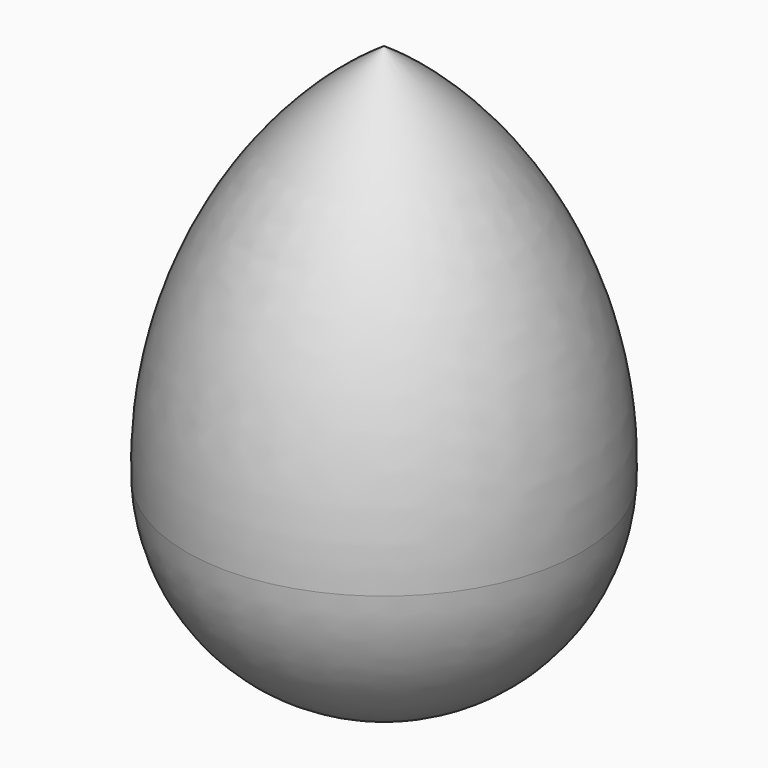
from build123d import *


with BuildPart() as f1:
    # F0 (on Front) → F1 (revolve)
    with BuildSketch(Plane.XZ):
        with BuildLine():
            Line((0, 40.73729), (-32.764791, -22.603863))
            ThreePointArc((-32.764791, -22.603863), (-22.644554, -44.799252), (0, -53.870008))
            Line((0, -53.870008), (0, 40.73729))
        make_face()
        with BuildLine():
            ThreePointArc((0, 40.73729), (-24.640741, 13.338549), (-32.764791, -22.603863))
            Line((-32.764791, -22.603863), (0, 40.73729))
        make_face()
    revolve(axis=Axis((0, 0, -6.566359), (0, 0, -1)))


solid = f1.part
